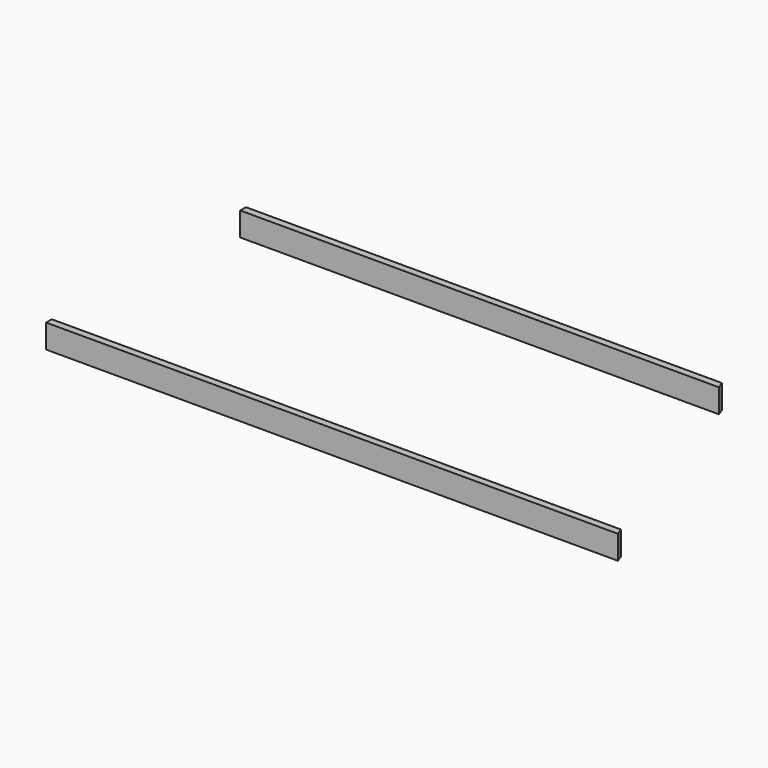
from build123d import *

# Parameters (mm, degrees)
F0_W     = 18
F0_H     = 60
F1_DEPTH = 1442
F3_DEPTH = 70


with BuildPart() as f1:
    # F0 (on Right) → F1 (new body)
    with BuildSketch(Plane.YZ):
        Rectangle(F0_W, F0_H)
        with Locations((612, 0)):
            Rectangle(F0_W, F0_H)
    extrude(amount=F1_DEPTH)

    # F2 (on Top) → F3 (cut, symmetric)
    with BuildSketch(Plane.XY):
        Polygon((1200.165658, 621), (1442, -9), (1442, 621), align=None)
    extrude(amount=F3_DEPTH, both=True, mode=Mode.SUBTRACT)


solid = f1.part
